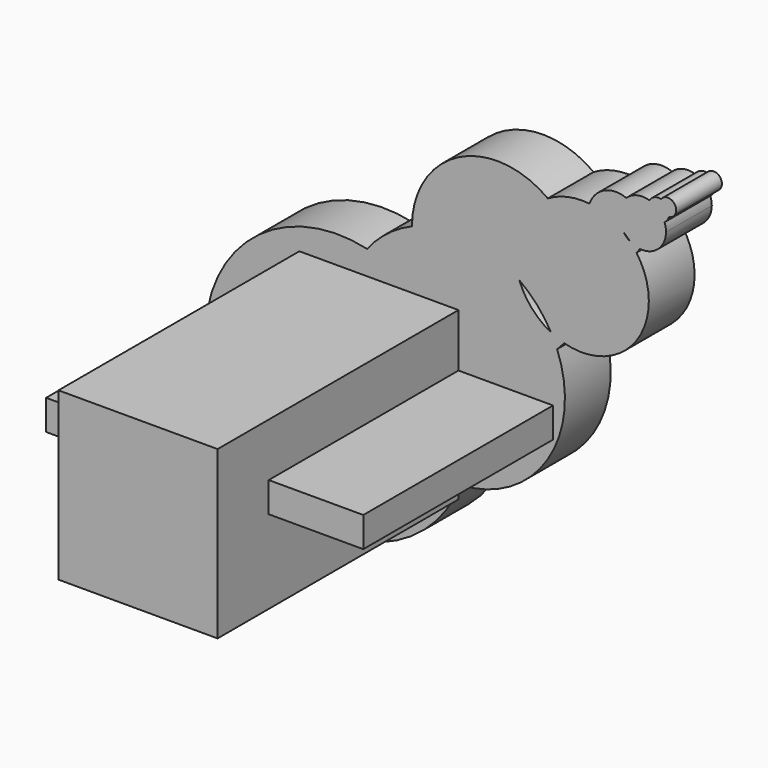
from build123d import *

# Parameters (mm, degrees)
F1_DEPTH = 482.6
F2_W     = 2675.7745742798
F2_H     = 253.9026737213
F3_DEPTH = 2000.7876753807
F4_W     = 1342.2315120697
F4_H     = 1406.1346054077
F5_DEPTH = 2540
F6_W     = 668.2456359944
F6_H     = 639.8428811592
F7_DEPTH = 1524
F6_W_2   = 1017.9599151692
F6_H_2   = 911.9933976692
F8_DEPTH = 1066.8
F6_W_3   = 1299.2261276326
F6_H_3   = 1347.8239907784
F9_DEPTH = 508


with BuildPart() as f1:
    # F0 (on Front) → F1 (new body)
    with BuildSketch(Plane.XZ):
        with BuildLine():
            ThreePointArc((-61.1587813421, -69.5440271721), (-17.4584032056, -46.2229366547), (0.0001243043, 0.1321723343))
            ThreePointArc((0.0001243043, 0.1321723343), (-48.2781404958, 66.8717179709), (-126.774106444, 41.90491734))
            ThreePointArc((-126.774106444, 41.90491734), (-77.1612759043, 10.2036931422), (-57.8562863239, -45.4175073761))
            ThreePointArc((-57.8562863239, -45.4175073761), (-58.685741649, -57.5932561294), (-61.1587813421, -69.5440271721))
        make_face()
        with BuildLine():
            ThreePointArc((-57.8562863239, -45.4175073761), (-77.1612759043, 10.2036931422), (-126.774106444, 41.90491734))
            ThreePointArc((-126.774106444, 41.90491734), (-130.8230842898, -35.5188222566), (-61.1587813421, -69.5440271721))
            ThreePointArc((-61.1587813421, -69.5440271721), (-58.685741649, -57.5932561294), (-57.8562863239, -45.4175073761))
        make_face()
        with BuildLine():
            ThreePointArc((-61.1587813421, -69.5440271721), (-130.8230842898, -35.5188222566), (-126.774106444, 41.90491734))
            ThreePointArc((-126.774106444, 41.90491734), (-182.8413638357, 37.1720147729), (-225.0809073448, 0))
            ThreePointArc((-225.0809073448, 0), (-147.6361993192, -45.4175073761), (-98.1346819036, -120.3176579167))
            ThreePointArc((-98.1346819036, -120.3176579167), (-75.0616988912, -98.2698929899), (-61.1587813421, -69.5440271721))
        make_face()
        with BuildLine():
            ThreePointArc((-98.1346819036, -120.3176579167), (-147.6361993192, -45.4175073761), (-225.0809073448, 0))
            ThreePointArc((-225.0809073448, 0), (-209.3961392236, -110.579939808), (-98.1346819036, -120.3176579167))
        make_face()
        with BuildLine():
            ThreePointArc((-98.1346819036, -120.3176579167), (-209.3961392236, -110.579939808), (-225.0809073448, 0))
            ThreePointArc((-225.0809073448, 0), (-329.0277540141, 3.8476799093), (-420.6393957138, -45.4175073761))
            ThreePointArc((-420.6393957138, -45.4175073761), (-312.5808492835, -132.0749844538), (-271.8735533906, -264.472430997))
            ThreePointArc((-271.8735533906, -264.472430997), (-280.5718237444, -327.9075156396), (-306.0245242477, -386.659791407))
            ThreePointArc((-306.0245242477, -386.659791407), (-151.7898704307, -337.2871237022), (-85.7065550505, -189.4392823832))
            ThreePointArc((-85.7065550505, -189.4392823832), (-88.8383001794, -154.3242666991), (-98.1346819036, -120.3176579167))
        make_face()
        with BuildLine():
            ThreePointArc((-271.8735533906, -264.472430997), (-312.5808492835, -132.0749844538), (-420.6393957138, -45.4175073761))
            ThreePointArc((-420.6393957138, -45.4175073761), (-481.9398537173, -173.6499014788), (-441.7581132048, -309.9830257668))
            ThreePointArc((-441.7581132048, -309.9830257668), (-414.8867984677, -332.9641578699), (-389.5072272957, -357.5827962474))
            ThreePointArc((-389.5072272957, -357.5827962474), (-349.4057088844, -376.8294041407), (-306.0245242477, -386.659791407))
            ThreePointArc((-306.0245242477, -386.659791407), (-280.5718237444, -327.9075156396), (-271.8735533906, -264.472430997))
        make_face()
        with BuildLine():
            ThreePointArc((-441.7581132048, -309.9830257668), (-481.9398537173, -173.6499014788), (-420.6393957138, -45.4175073761))
            ThreePointArc((-420.6393957138, -45.4175073761), (-606.749237141, -50.7157338644), (-730.9294342995, -189.4392823832))
            ThreePointArc((-730.9294342995, -189.4392823832), (-577.8121015841, -229.2446010815), (-441.7581132048, -309.9830257668))
        make_face()
        with BuildLine():
            ThreePointArc((-389.5072272957, -357.5827962474), (-417.7691414921, -336.128143221), (-441.7581132048, -309.9830257668))
            ThreePointArc((-441.7581132048, -309.9830257668), (-577.8121015841, -229.2446010815), (-730.9294342995, -189.4392823832))
            ThreePointArc((-730.9294342995, -189.4392823832), (-627.5521653076, -467.2807465704), (-334.2508387668, -424.1870020667))
            ThreePointArc((-334.2508387668, -424.1870020667), (-360.6005621448, -389.8242501611), (-389.5072272957, -357.5827962474))
        make_face()
        with BuildLine():
            ThreePointArc((-334.2508387668, -424.1870020667), (-627.5521653076, -467.2807465704), (-730.9294342995, -189.4392823832))
            ThreePointArc((-730.9294342995, -189.4392823832), (-912.8028414481, -198.2307656722), (-1082.4120044708, -264.472430997))
            ThreePointArc((-1082.4120044708, -264.472430997), (-866.3406898067, -519.5504866661), (-788.7418438533, -844.7120566759))
            ThreePointArc((-788.7418438533, -844.7120566759), (-829.2160706316, -1082.7237553034), (-946.0886763518, -1293.9784019955))
            ThreePointArc((-946.0886763518, -1293.9784019955), (-453.466411047, -1199.5398678136), (-230.5772327293, -750.1895065126))
            ThreePointArc((-230.5772327293, -750.1895065126), (-257.1197582476, -579.1443008696), (-334.2508387668, -424.1870020667))
        make_face()
        with BuildLine():
            ThreePointArc((-334.2508387668, -424.1870020667), (-319.200641857, -406.1281966785), (-306.0245242477, -386.659791407))
            ThreePointArc((-306.0245242477, -386.659791407), (-349.4057088844, -376.8294041407), (-389.5072272957, -357.5827962474))
            ThreePointArc((-389.5072272957, -357.5827962474), (-360.6005621448, -389.8242501611), (-334.2508387668, -424.1870020667))
        make_face()
        with BuildLine():
            ThreePointArc((-788.7418438533, -844.7120566759), (-866.3406898067, -519.5504866661), (-1082.4120044708, -264.472430997))
            ThreePointArc((-1082.4120044708, -264.472430997), (-1327.3881653616, -562.902941502), (-1323.2001896928, -948.9813660026))
            ThreePointArc((-1323.2001896928, -948.9813660026), (-1172.6686692414, -1085.2733814959), (-1055.2816970826, -1250.9705477482))
            ThreePointArc((-1055.2816970826, -1250.9705477482), (-1001.8060781577, -1275.320316043), (-946.0886763518, -1293.9784019955))
            ThreePointArc((-946.0886763518, -1293.9784019955), (-829.2160706316, -1082.7237553034), (-788.7418438533, -844.7120566759))
        make_face()
        with BuildLine():
            ThreePointArc((-1323.2001896928, -948.9813660026), (-1327.3881653616, -562.902941502), (-1082.4120044708, -264.472430997))
            ThreePointArc((-1082.4120044708, -264.472430997), (-1833.9632686946, -202.251047798), (-2228.8615535161, -844.7120566759))
            ThreePointArc((-2228.8615535161, -844.712056676), (-1762.3891427966, -778.3575145006), (-1323.2001896928, -948.9813660026))
        make_face()
        with BuildLine():
            ThreePointArc((-1055.2816970826, -1250.9705477482), (-1217.1655710564, -1124.7501031162), (-1323.2001896928, -948.9813660026))
            ThreePointArc((-1323.2001896928, -948.9813660026), (-1762.3891427966, -778.3575145006), (-2228.8615535161, -844.712056676))
            ThreePointArc((-2228.8615535161, -844.7120566759), (-1787.3647245675, -1508.7066614363), (-1004.2721469756, -1358.4591987527))
            ThreePointArc((-1004.2721469756, -1358.4591987527), (-1028.0574299289, -1303.8988753044), (-1055.2816970826, -1250.9705477482))
        make_face()
        with BuildLine():
            ThreePointArc((-1004.2721469756, -1358.4591987527), (-1787.3647245675, -1508.7066614363), (-2228.8615535161, -844.7120566759))
            ThreePointArc((-2228.8615535161, -844.712056676), (-2436.3248011036, -965.2969281577), (-2606.0588359833, -1134.9202394486))
            ThreePointArc((-2606.0588359833, -1134.9202394485), (-1983.6130756489, -1526.9802343145), (-1740.9037507317, -2221.4166588566))
            ThreePointArc((-1740.9037507317, -2221.4166588566), (-1760.6921600502, -2430.5316231108), (-1819.3548808532, -2632.2228093496))
            ThreePointArc((-1819.3548808532, -2632.2228093496), (-1193.5005596414, -2343.227960667), (-938.1873080029, -1702.8946119474))
            ThreePointArc((-938.1873080029, -1702.8946119474), (-954.8578262265, -1527.5357229478), (-1004.2721469756, -1358.4591987527))
        make_face()
        with BuildLine():
            ThreePointArc((-1004.2721469756, -1358.4591987527), (-974.2073466293, -1327.0968338925), (-946.0886763518, -1293.9784019955))
            ThreePointArc((-946.0886763518, -1293.9784019955), (-1001.8060781577, -1275.320316043), (-1055.2816970826, -1250.9705477482))
            ThreePointArc((-1055.2816970826, -1250.9705477482), (-1028.0574299289, -1303.8988753044), (-1004.2721469756, -1358.4591987527))
        make_face()
        with BuildLine():
            ThreePointArc((-1740.9037507317, -2221.4166588566), (-1983.6130756489, -1526.9802343145), (-2606.0588359833, -1134.9202394485))
            ThreePointArc((-2606.0588359833, -1134.9202394486), (-2692.6816864025, -2135.757090048), (-1819.3548808532, -2632.2228093496))
            ThreePointArc((-1819.3548808532, -2632.2228093496), (-1760.6921600502, -2430.5316231108), (-1740.9037507317, -2221.4166588566))
        make_face()
        with BuildLine():
            ThreePointArc((-1819.3548808532, -2632.2228093496), (-2692.6816864025, -2135.757090048), (-2606.0588359833, -1134.9202394486))
            ThreePointArc((-2606.0588359833, -1134.9202394485), (-3842.5966957299, -2739.9387057658), (-1819.3548808532, -2632.2228093496))
        make_face()
    extrude(amount=F1_DEPTH)

    # F2 (on face) → F3 (join)
    with BuildSketch(Plane.XZ.offset(482.6)):
        with Locations((-2376.4224052429, -1914.5678281784)):
            Rectangle(F2_W, F2_H)
    extrude(amount=F3_DEPTH)

    # F4 (on face) → F5 (join)
    with BuildSketch(Plane.XZ.offset(482.6)):
        with Locations((-2507.306098938, -2041.5191650391)):
            Rectangle(F4_W, F4_H)
    extrude(amount=F5_DEPTH)

    # F6 (on face) → F7 (join)
    with BuildSketch(Plane(origin=(0, 0, 0), x_dir=(-1, 0, 0), z_dir=(0, 1, 0))):
        with Locations((2855.7141609151, -2221.4166588566)):
            Rectangle(F6_W, F6_H)
    extrude(amount=F7_DEPTH)

    # F6 (on face) → F8 (join)
    with BuildSketch(Plane(origin=(0, 0, 0), x_dir=(-1, 0, 0), z_dir=(0, 1, 0))):
        with Locations((2855.7141609151, -2221.4166588566)):
            Rectangle(F6_W_2, F6_H_2)
        with Locations((2855.7141609151, -2221.4166588566)):
            Rectangle(F6_W, F6_H, mode=Mode.SUBTRACT)
    extrude(amount=F8_DEPTH)

    # F6 (on face) → F9 (join)
    with BuildSketch(Plane(origin=(0, 0, 0), x_dir=(-1, 0, 0), z_dir=(0, 1, 0))):
        with Locations((2855.7141609151, -2221.4166588566)):
            Rectangle(F6_W_3, F6_H_3)
        with Locations((2855.7141609151, -2221.4166588566)):
            Rectangle(F6_W_2, F6_H_2, mode=Mode.SUBTRACT)
    extrude(amount=F9_DEPTH)


solid = f1.part
